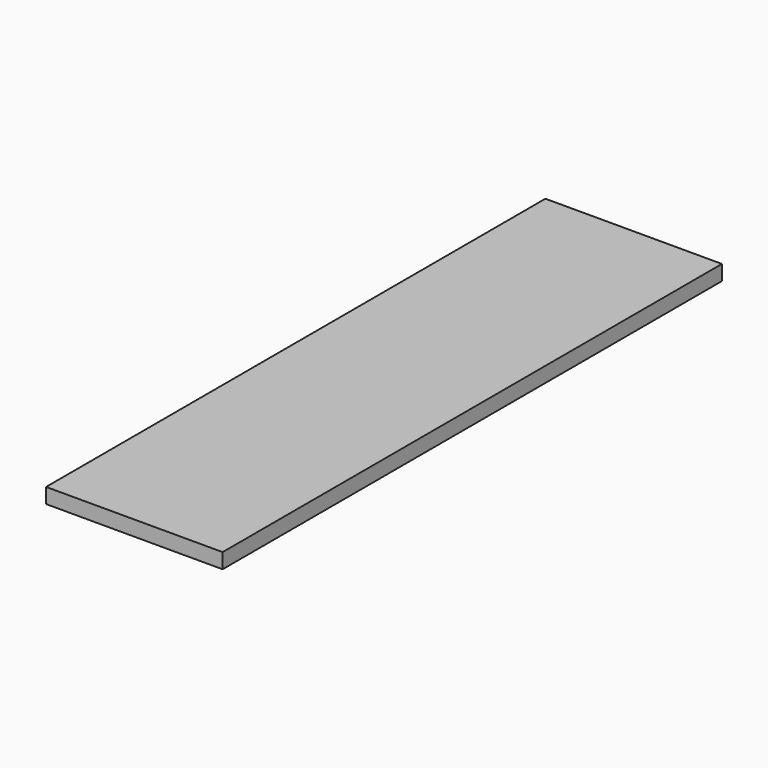
from build123d import *

# Parameters (mm, degrees)
PAD_DEPTH = 12


with BuildPart() as part:
    # Sketch → Pad (new body)
    with BuildSketch(Plane.XY):
        Polygon((0, 495), (140, 495), (140, 0), (0, 0), (0, 247.5), align=None)
    extrude(amount=PAD_DEPTH)


solid = part.part
